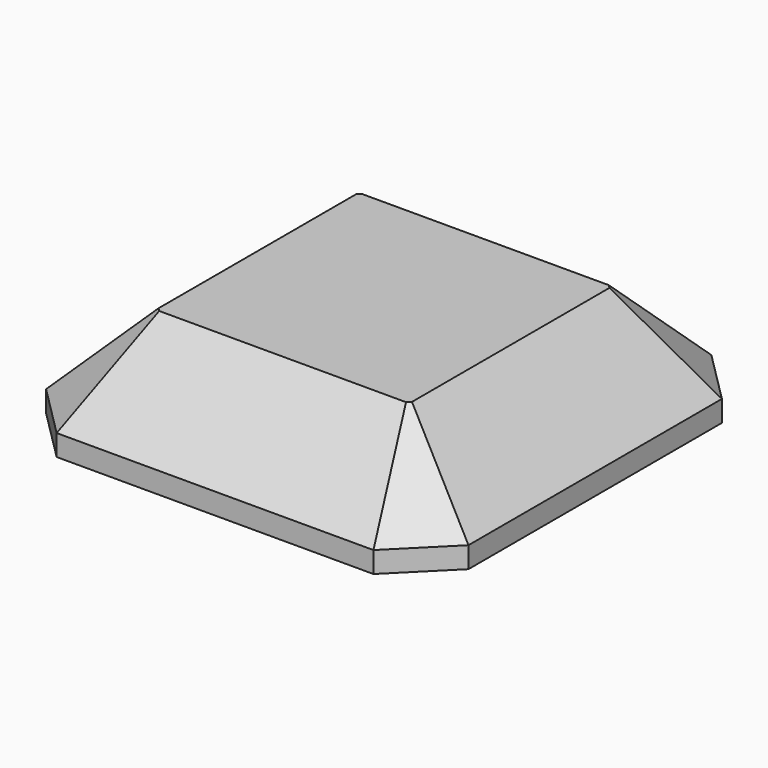
from build123d import *

# Parameters (mm, degrees)
F0_W     = 152.4
F0_H     = 152.4
F1_DEPTH = 38.1
F2_SIZE  = 19.05
F3_SIZE  = 30.48


with BuildPart() as f1:
    # F0 (on Top) → F1 (new body)
    with BuildSketch(Plane.XY):
        Rectangle(F0_W, F0_H)
    extrude(amount=F1_DEPTH)

    # F2
    f2_edges = [f1.edges().sort_by_distance(p)[0] for p in [
        (-76.2, -76.2, 19.05),
        (76.2, -76.2, 19.05),
        (76.2, 76.2, 19.05),
        (-76.2, 76.2, 19.05),
    ]]
    chamfer(f2_edges, length=F2_SIZE)

    # F3
    f3_edges = [f1.edges().sort_by_distance(p)[0] for p in [
        (0, -76.2, 38.1),
        (-76.2, 0, 38.1),
        (0, 76.2, 38.1),
        (76.2, 0, 38.1),
        (66.675, -66.675, 38.1),
        (66.675, 66.675, 38.1),
        (-66.675, 66.675, 38.1),
        (-66.675, -66.675, 38.1),
    ]]
    chamfer(f3_edges, length=F3_SIZE)


solid = f1.part
